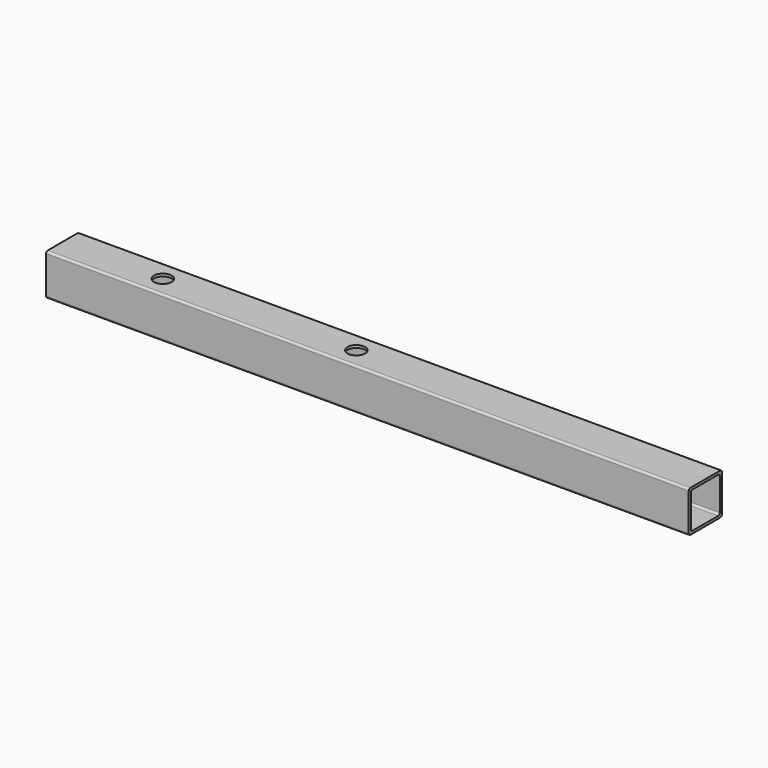
from build123d import *

# Parameters (mm, degrees)
F1_DEPTH = 310
F3_D     = 8.5


with BuildPart() as f1:
    # F0 (on Right) → F1 (new body)
    with BuildSketch(Plane.YZ):
        with BuildLine():
            Line((9, 10), (-9, 10))
            ThreePointArc((-9, 10), (-9.707107, 9.707107), (-10, 9))
            Line((-10, 9), (-10, -9))
            ThreePointArc((-10, -9), (-9.707107, -9.707107), (-9, -10))
            Line((-9, -10), (9, -10))
            ThreePointArc((9, -10), (9.707107, -9.707107), (10, -9))
            Line((10, -9), (10, 9))
            ThreePointArc((10, 9), (9.707107, 9.707107), (9, 10))
        make_face()
        with BuildLine():
            ThreePointArc((-8.75, 7.75), (-8.457107, 8.457107), (-7.75, 8.75))
            Line((-7.75, 8.75), (7.75, 8.75))
            ThreePointArc((7.75, 8.75), (8.457107, 8.457107), (8.75, 7.75))
            Line((8.75, 7.75), (8.75, -7.75))
            ThreePointArc((8.75, -7.75), (8.457107, -8.457107), (7.75, -8.75))
            Line((7.75, -8.75), (-7.75, -8.75))
            ThreePointArc((-7.75, -8.75), (-8.457107, -8.457107), (-8.75, -7.75))
            Line((-8.75, -7.75), (-8.75, 7.75))
        make_face(mode=Mode.SUBTRACT)
    extrude(amount=F1_DEPTH)

    # F3 (through all)
    with Locations(Plane.XY.offset(10)):
        with Locations((48.331, 0), (141.669, 0)):
            Hole(F3_D / 2)


solid = f1.part
